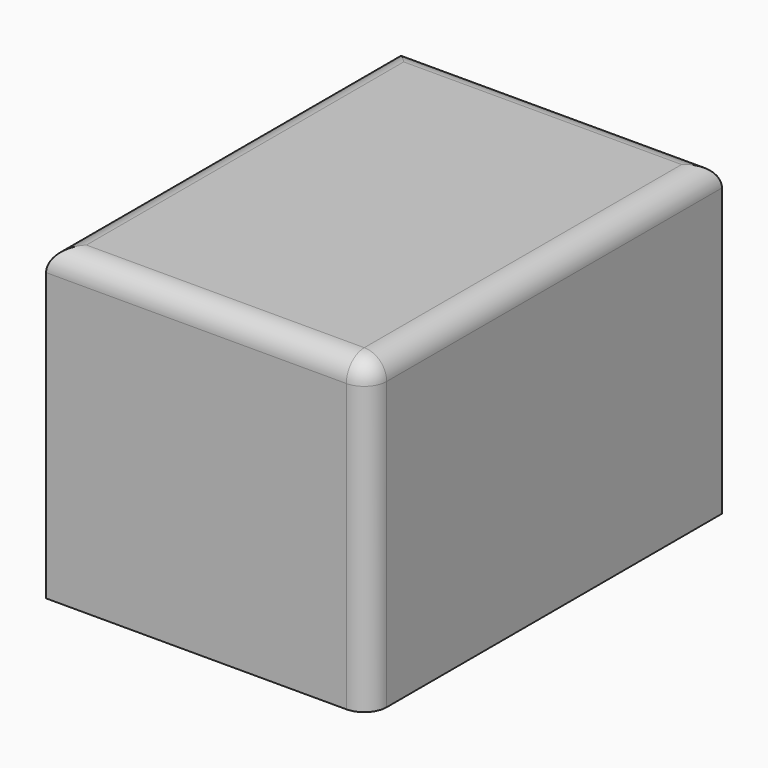
from build123d import *

# Parameters (mm, degrees)
F0_W     = 73.152002
F0_H     = 70.104003
F1_DEPTH = 100.076
F2_R     = 5.08


with BuildPart() as f1:
    # F0 (on Front) → F1 (new body)
    with BuildSketch(Plane.XZ):
        with Locations((-0.761999, -0.762)):
            Rectangle(F0_W, F0_H)
    extrude(amount=F1_DEPTH)

    # F2
    f2_edges = [f1.edges().sort_by_distance(p)[0] for p in [
        (-37.338, -50.038, 34.290001),
        (-0.761999, -100.076, 34.290001),
        (35.814002, -50.038, 34.290001),
        (-0.761999, 0, 34.290001),
        (35.814002, -100.076, -0.762001),
    ]]
    fillet(f2_edges, radius=F2_R)


solid = f1.part
